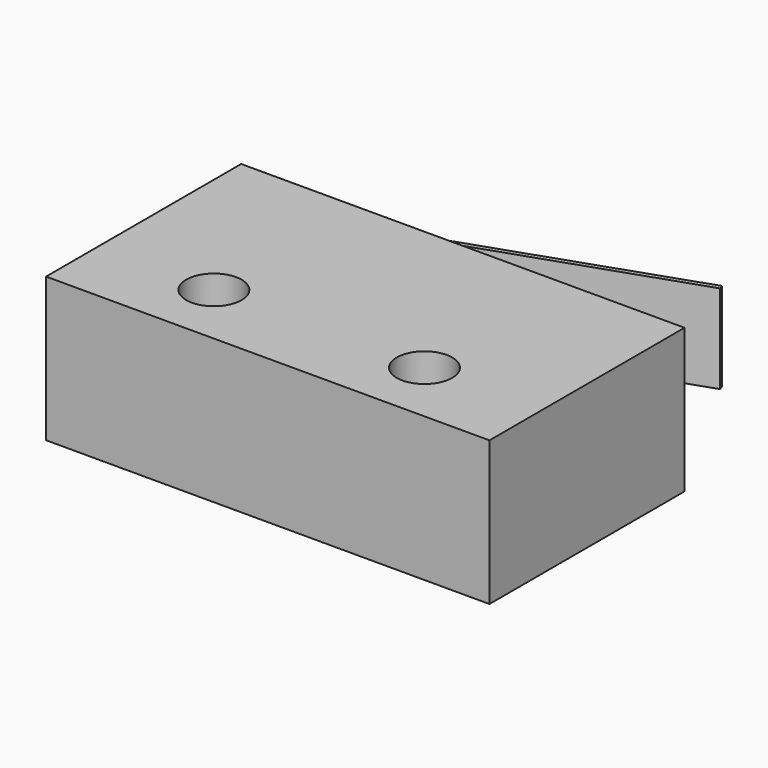
from build123d import *

# Parameters (mm, degrees)
F0_W     = 20
F0_H     = 11
F0_R     = 1.25
F1_DEPTH = 6.5
F4_DEPTH = 2


with BuildPart() as f1:
    # F0 (on Top) → F1 (new body)
    with BuildSketch(Plane.XY):
        with Locations((10, 5.5)):
            Rectangle(F0_W, F0_H)
        with Locations((5.25, 2.9)):
            Circle(F0_R, mode=Mode.SUBTRACT)
        with Locations((14.75, 2.9)):
            Circle(F0_R, mode=Mode.SUBTRACT)
    extrude(amount=F1_DEPTH)

    # F3 (on mid) → F4 (join, symmetric)
    with BuildSketch(Plane.XY.offset(3.25)):
        Polygon((17.5351351351, 16.1891891892), (2.4, 11), (3.0166666667, 11), (17.6, 16), align=None)
    extrude(amount=F4_DEPTH, both=True)


solid = f1.part
